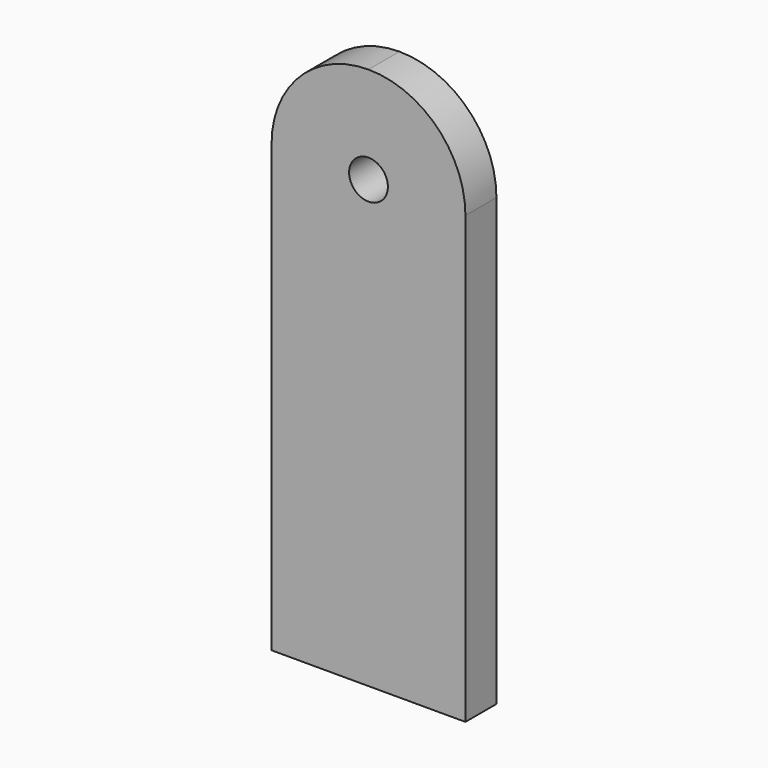
from build123d import *

# Parameters (mm, degrees)
F0_R     = 25.4
F1_DEPTH = 50.8


with BuildPart() as f1:
    # F0 (on Front) → F1 (new body)
    with BuildSketch(Plane.XZ):
        with BuildLine():
            Line((0, 584.2), (0, 0))
            Line((0, 0), (254, 0))
            Line((254, 0), (254, 584.2))
            ThreePointArc((254, 584.2), (216.802561, 674.002561), (127, 711.2))
            ThreePointArc((127, 711.2), (37.197439, 674.002561), (0, 584.2))
        make_face()
        with Locations((127, 584.2)):
            Circle(F0_R, mode=Mode.SUBTRACT)
    extrude(amount=F1_DEPTH)


solid = f1.part
